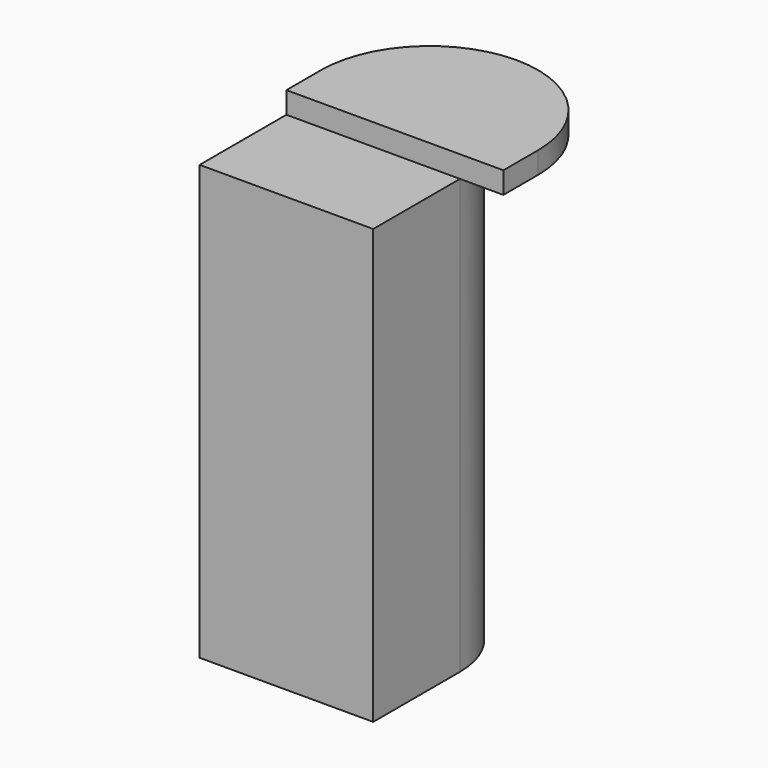
from build123d import *

# Parameters (mm, degrees)
F1_DEPTH = 100
F3_DEPTH = 5


with BuildPart() as f1:
    # F0 (on Top) → F1 (new body)
    with BuildSketch(Plane.XY):
        with BuildLine():
            Line((-20, 0), (20, 0))
            ThreePointArc((20, 0), (0, 20), (-20, 0))
        make_face()
        with BuildLine():
            Line((20, -25), (20, 0))
            ThreePointArc((20, 0), (0, -20), (-20, 0))
            Line((-20, 0), (-20, -25))
            Line((-20, -25), (20, -25))
        make_face()
        with BuildLine():
            ThreePointArc((-20, 0), (0, -20), (20, 0))
            Line((20, 0), (-20, 0))
        make_face()
    extrude(amount=F1_DEPTH)

    # F2 (on face) → F3 (join)
    with BuildSketch(Plane.XY.offset(100)):
        with BuildLine():
            Line((-20, 10), (-20, 0))
            Line((-20, 0), (30, 0))
            Line((30, 0), (30, 10))
            ThreePointArc((30, 10), (5, 35), (-20, 10))
        make_face()
    extrude(amount=F3_DEPTH)


solid = f1.part
